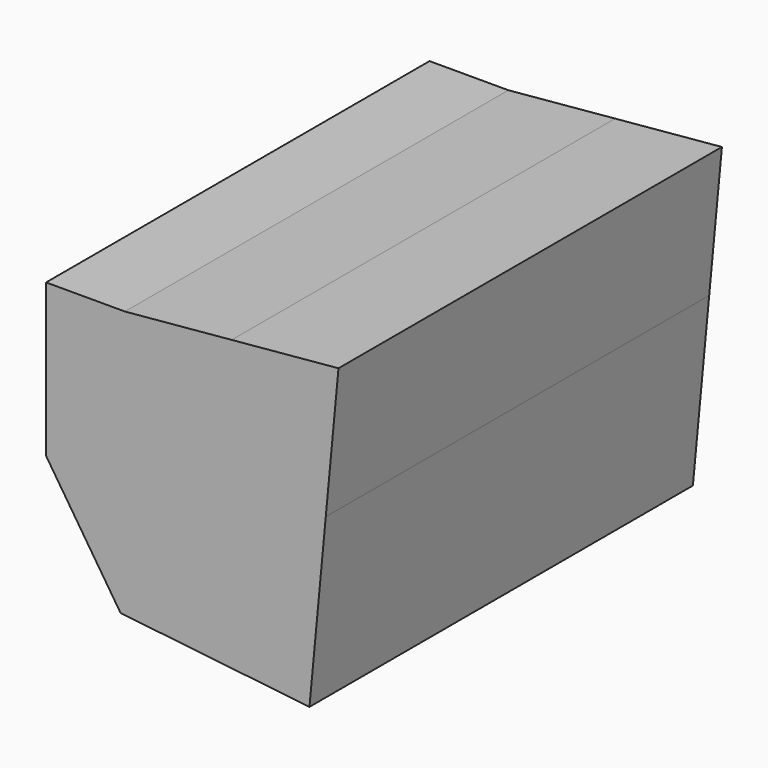
from build123d import *

# Parameters (mm, degrees)
F1_DEPTH = 152.4


with BuildPart() as f1:
    # F0 (on Front) → F1 (new body)
    with BuildSketch(Plane.XZ):
        Polygon((9.36427, 51.654439), (-24.588287, 48.555322), (0, 0), align=None)
        Polygon((0, 0), (-24.588287, 48.555322), (-49.656704, 48.555322), (-49.656704, 0), align=None)
        Polygon((-25.965661, -36.291637), (0, 0), (-49.656704, 0), align=None)
        Polygon((9.36427, 51.654439), (0, 0), (39.270541, 11.87501), align=None)
        Polygon((43.316826, 54.753557), (9.36427, 51.654439), (39.270541, 11.87501), align=None)
        Polygon((39.270541, 11.87501), (0, 0), (34.088343, -43.040819), align=None)
        Polygon((34.088343, -43.040819), (0, 0), (-25.965661, -36.291637), align=None)
    extrude(amount=F1_DEPTH)


solid = f1.part
